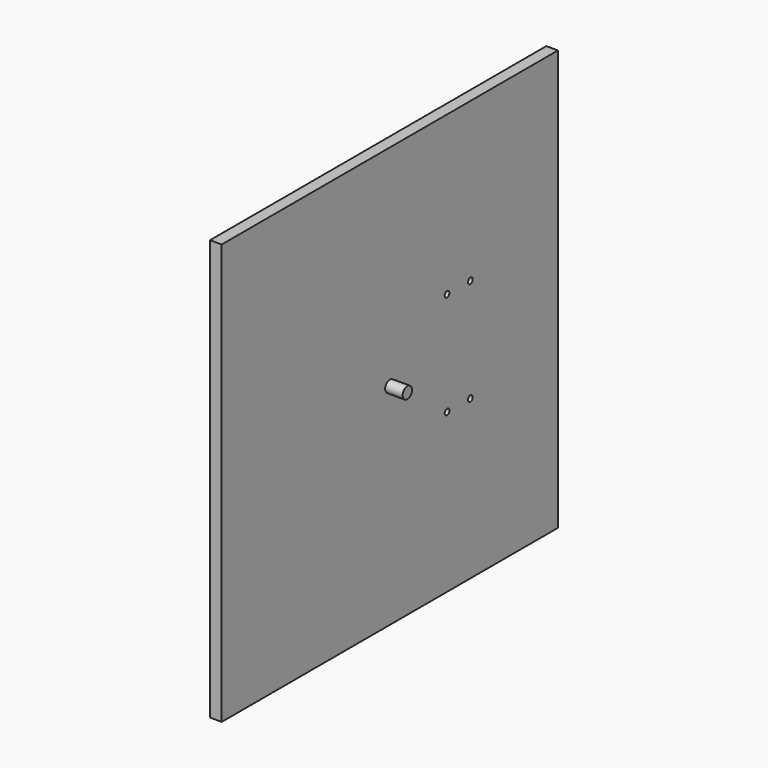
from build123d import *

# Parameters (mm, degrees)
F0_W     = 914.4
F0_H     = 914.4
F1_DEPTH = 25.4
F2_R     = 12.7
F3_DEPTH = 38.1
F5_D     = 12.7


with BuildPart() as f1:
    # F0 (on Right) → F1 (new body)
    with BuildSketch(Plane.YZ):
        Rectangle(F0_W, F0_H)
    extrude(amount=F1_DEPTH)

    # F2 (on face) → F3 (join)
    with BuildSketch(Plane.YZ.offset(25.4)):
        Circle(F2_R)
    extrude(amount=F3_DEPTH)

    # F5 (through all)
    with Locations(Plane.YZ.offset(25.4)):
        with Locations((155.575, 112.7125), (219.075, 112.7125), (155.575, -112.7125), (219.075, -112.7125)):
            Hole(F5_D / 2)


solid = f1.part
